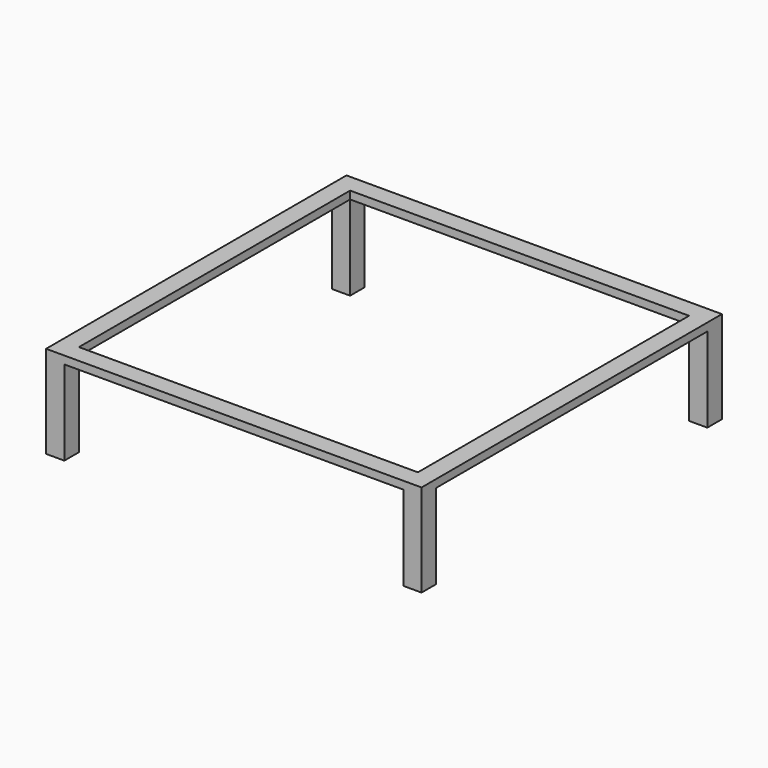
from build123d import *

# Parameters (mm, degrees)
SKETCH_W        = 144
SKETCH_H        = 144
PAD_DEPTH       = 37
SKETCH001_W     = 130
SKETCH001_H     = 130
POCKET_DEPTH    = 37.001
SKETCH002_W     = 130
SKETCH002_H     = 34
POCKET001_DEPTH = 144.001
SKETCH003_W     = 130
SKETCH003_H     = 34
POCKET002_DEPTH = 144.001
SKETCH004_W     = 144
SKETCH004_H     = 144
POCKET003_DEPTH = 1.5


with BuildPart() as part:
    # Sketch → Pad (new body)
    with BuildSketch(Plane.XY):
        Rectangle(SKETCH_W, SKETCH_H)
    extrude(amount=PAD_DEPTH)

    # Sketch001 (on Face6 of Pad) → Pocket (cut, through all)
    with BuildSketch(Plane.XY.offset(37)):
        Rectangle(SKETCH001_W, SKETCH001_H)
    extrude(amount=-POCKET_DEPTH, mode=Mode.SUBTRACT)

    # Sketch002 (on Face3 of Pocket) → Pocket001 (cut, through all)
    with BuildSketch(Plane.YZ.offset(72)):
        with Locations((0, 17)):
            Rectangle(SKETCH002_W, SKETCH002_H)
    extrude(amount=-POCKET001_DEPTH, mode=Mode.SUBTRACT)

    # Sketch003 (on Face8 of Pocket001) → Pocket002 (cut, through all)
    with BuildSketch(Plane(origin=(0, 72, 0), x_dir=(-1, 0, 0), z_dir=(0, 1, 0))):
        with Locations((0, 17)):
            Rectangle(SKETCH003_W, SKETCH003_H)
    extrude(amount=-POCKET002_DEPTH, mode=Mode.SUBTRACT)

    # Sketch004 → Pocket003 (cut, symmetric)
    with BuildSketch(Plane.XY):
        Rectangle(SKETCH004_W, SKETCH004_H)
    extrude(amount=POCKET003_DEPTH, both=True, mode=Mode.SUBTRACT)


solid = part.part
